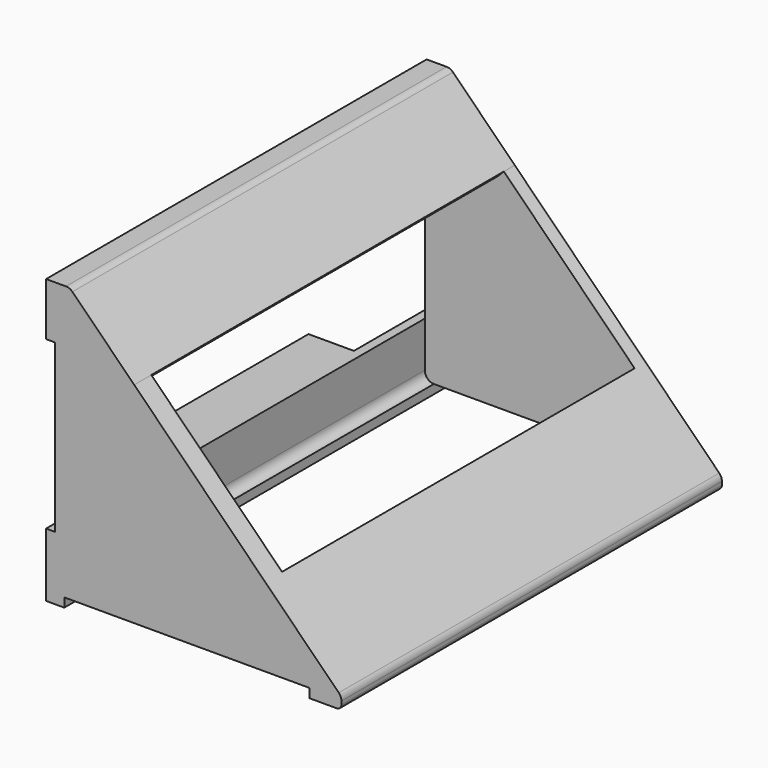
from build123d import *

# Parameters (mm, degrees)
F1_DEPTH      = 3
F1_DEPTH_BACK = 101.7
F2_DEPTH      = 98.7
F3_DEPTH      = 97
F4_W          = 10
F4_H          = 0.3
F4_H_2        = 20
F4_H_3        = 19.7
F5_DEPTH      = 25
F6_W          = 10
F6_H          = 20
F6_H_2        = 19.7
F7_DEPTH      = 50


with BuildPart() as f1:
    # F0 (on Front) → F1 (new body, two sides)
    with BuildSketch(Plane.XZ) as f1_sk:
        with BuildLine():
            Line((0, 52.7286796564), (0, 50.7286796564))
            Line((0, 50.7286796564), (2, 50.7286796564))
            Line((2, 50.7286796564), (2, 57.9289321881))
            ThreePointArc((2, 57.9289321881), (3.2346331353, 59.7766912532), (5.4142135624, 59.3431457505))
            Line((5.4142135624, 59.3431457505), (17.9890566593, 46.7683026536))
            Line((17.9890566593, 46.7683026536), (19.4032702217, 48.182516216))
            Line((19.4032702217, 48.182516216), (5.7928932188, 61.7928932188))
            ThreePointArc((5.7928932188, 61.7928932188), (5.1440465212, 62.2264387215), (4.3786796564, 62.3786796564))
            Line((4.3786796564, 62.3786796564), (0, 62.3786796564))
            Line((0, 62.3786796564), (0, 52.7286796564))
        make_face()
        with BuildLine():
            ThreePointArc((2, 4), (2.5857864376, 2.5857864376), (4, 2))
            Line((4, 2), (57.9289321881, 2))
            ThreePointArc((57.9289321881, 2), (59.7766912532, 3.2346331353), (59.3431457505, 5.4142135624))
            Line((59.3431457505, 5.4142135624), (46.7683026536, 17.9890566593))
            Line((46.7683026536, 17.9890566593), (17.9890566593, 46.7683026536))
            Line((17.9890566593, 46.7683026536), (5.4142135624, 59.3431457505))
            ThreePointArc((5.4142135624, 59.3431457505), (3.2346331353, 59.7766912532), (2, 57.9289321881))
            Line((2, 57.9289321881), (2, 50.7286796564))
            Line((2, 50.7286796564), (2, 14.0286796564))
            Line((2, 14.0286796564), (2, 4))
        make_face()
        with BuildLine():
            Line((57.9289321881, 2), (57.9289321881, 0))
            Line((57.9289321881, 0), (64, 0))
            ThreePointArc((64, 0), (64.7071067812, 0.2928932188), (65, 1))
            Line((65, 1), (65, 1.7573593129))
            ThreePointArc((65, 1.7573593129), (64.847759065, 2.5227261776), (64.4142135624, 3.1715728753))
            Line((64.4142135624, 3.1715728753), (48.182516216, 19.4032702217))
            Line((48.182516216, 19.4032702217), (46.7683026536, 17.9890566593))
            Line((46.7683026536, 17.9890566593), (59.3431457505, 5.4142135624))
            ThreePointArc((59.3431457505, 5.4142135624), (59.7766912532, 3.2346331353), (57.9289321881, 2))
        make_face()
        Polygon((-5.6, 12.0286796564), (0, 12.0286796564), (0, 14.0286796564), (-10, 14.0286796564), (-5.6, 11.0286796564), align=None)
        Polygon((-10, 50.7286796564), (0, 50.7286796564), (0, 52.7286796564), (-5.6, 52.7286796564), (-5.6, 53.7286796564), align=None)
        Polygon((17.9890566593, 46.7683026536), (46.7683026536, 17.9890566593), (48.182516216, 19.4032702217), (19.4032702217, 48.182516216), align=None)
        with BuildLine():
            Line((0, 12.0286796564), (0, 0))
            Line((0, 0), (4, 0))
            Line((4, 0), (4, 2))
            ThreePointArc((4, 2), (2.5857864376, 2.5857864376), (2, 4))
            Line((2, 4), (2, 14.0286796564))
            Line((2, 14.0286796564), (0, 14.0286796564))
            Line((0, 14.0286796564), (0, 12.0286796564))
        make_face()
    extrude(amount=-F1_DEPTH)
    extrude(f1_sk.sketch, amount=F1_DEPTH_BACK)

    # F0 (on Front) → F2 (cut)
    with BuildSketch(Plane.XZ):
        with BuildLine():
            ThreePointArc((2, 4), (2.5857864376, 2.5857864376), (4, 2))
            Line((4, 2), (57.9289321881, 2))
            ThreePointArc((57.9289321881, 2), (59.7766912532, 3.2346331353), (59.3431457505, 5.4142135624))
            Line((59.3431457505, 5.4142135624), (46.7683026536, 17.9890566593))
            Line((46.7683026536, 17.9890566593), (17.9890566593, 46.7683026536))
            Line((17.9890566593, 46.7683026536), (5.4142135624, 59.3431457505))
            ThreePointArc((5.4142135624, 59.3431457505), (3.2346331353, 59.7766912532), (2, 57.9289321881))
            Line((2, 57.9289321881), (2, 50.7286796564))
            Line((2, 50.7286796564), (2, 14.0286796564))
            Line((2, 14.0286796564), (2, 4))
        make_face()
    extrude(amount=F2_DEPTH, mode=Mode.SUBTRACT)

    # F0 (on Front) → F3 (cut)
    with BuildSketch(Plane.XZ):
        Polygon((17.9890566593, 46.7683026536), (46.7683026536, 17.9890566593), (48.182516216, 19.4032702217), (19.4032702217, 48.182516216), align=None)
    extrude(amount=F3_DEPTH, mode=Mode.SUBTRACT)

    # F4 (on face) → F5 (cut)
    with BuildSketch(Plane(origin=(0, 0, 50.7286796564), x_dir=(1, 0, 0), z_dir=(0, 0, -1))):
        with Locations((-5, 101.85)):
            Rectangle(F4_W, F4_H)
        Polygon((-10, 49.5), (-10, 39.5), (0, 39.5), (0, 49.5), (0, 59.5), (-10, 59.5), align=None)
        with Locations((-5, 7)):
            Rectangle(F4_W, F4_H_2)
        with Locations((-5, 91.85)):
            Rectangle(F4_W, F4_H_3)
    extrude(amount=-F5_DEPTH, mode=Mode.SUBTRACT)

    # F6 (on face) → F7 (cut)
    with BuildSketch(Plane(origin=(0, 0, 50.7286796564), x_dir=(1, 0, 0), z_dir=(0, 0, -1))):
        with Locations((-5, 7)):
            Rectangle(F6_W, F6_H)
        with Locations((-5, 91.85)):
            Rectangle(F6_W, F6_H_2)
    extrude(amount=F7_DEPTH, mode=Mode.SUBTRACT)


solid = f1.part
